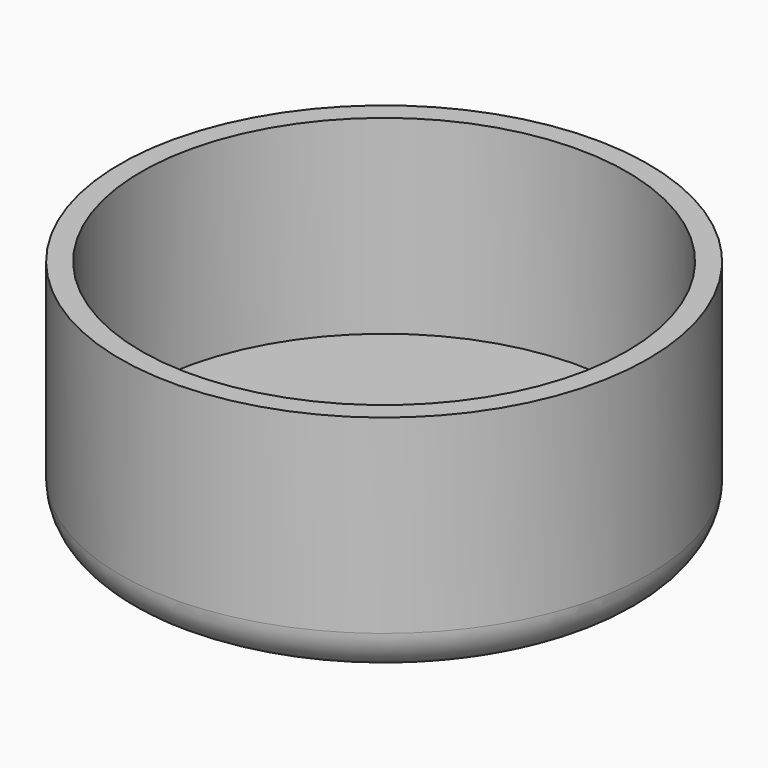
from build123d import *

# Parameters (mm, degrees)
F0_R     = 12.5
F1_DEPTH = 11
F2_R     = 11.5
F3_DEPTH = 9
F4_R     = 2


with BuildPart() as f1:
    # F0 (on Top) → F1 (new body)
    with BuildSketch(Plane.XY):
        Circle(F0_R)
    extrude(amount=F1_DEPTH)

    # F2 (on face) → F3 (cut)
    with BuildSketch(Plane.XY.offset(11)):
        Circle(F2_R)
    extrude(amount=-F3_DEPTH, mode=Mode.SUBTRACT)

    # F4
    f4_edges = [f1.edges().sort_by_distance(p)[0] for p in [
        (-12.5, 0, 0),
    ]]
    fillet(f4_edges, radius=F4_R)


solid = f1.part
